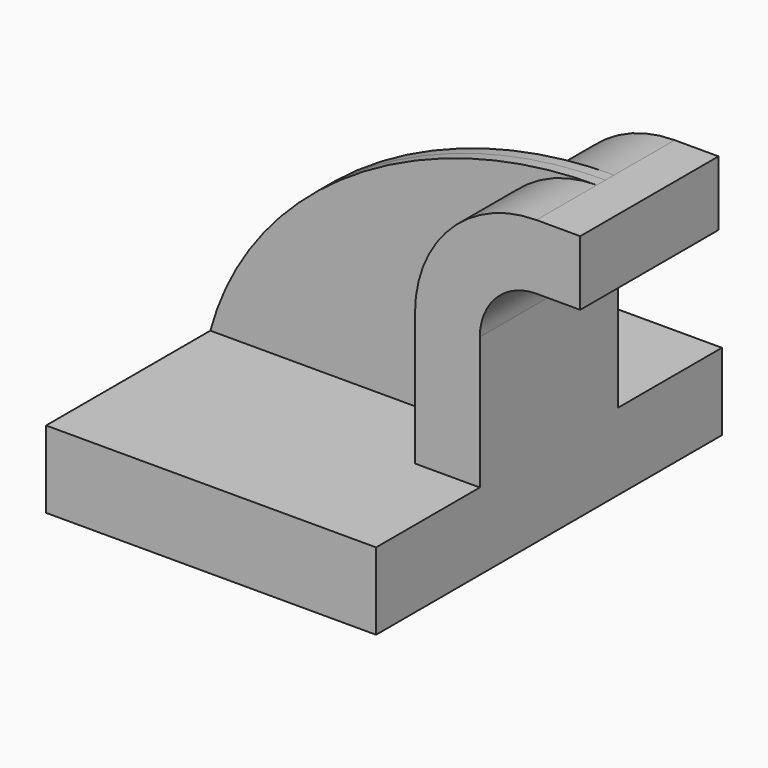
from build123d import *

# Parameters (mm, degrees)
F1_DEPTH = 63.5
F2_DEPTH = 25.4
F3_DEPTH = 3.175


with BuildPart() as f1:
    # F0 (on Front) → F1 (new body, symmetric)
    with BuildSketch(Plane.XZ):
        Polygon((-48.475966, -11.303), (48.475966, -11.303), (48.475966, 11.303), (29.425966, 11.303), (-48.475966, 11.303), align=None)
    extrude(amount=F1_DEPTH, both=True)

    # F0 (on Front) → F2 (join, symmetric)
    with BuildSketch(Plane.XZ):
        with BuildLine():
            Line((29.425966, 11.303), (48.475966, 11.303))
            Line((48.475966, 11.303), (48.475966, 50.224972))
            ThreePointArc((48.475966, 50.224972), (53.341391, 61.971147), (65.087566, 66.836572))
            Line((65.087566, 66.836572), (77.961333, 66.836572))
            Line((77.961333, 66.836572), (77.961333, 85.886572))
            Line((77.961333, 85.886572), (65.087566, 85.886572))
            ThreePointArc((65.087566, 85.886572), (39.871007, 75.441531), (29.425966, 50.224972))
            Line((29.425966, 50.224972), (29.425966, 11.303))
        make_face()
    extrude(amount=F2_DEPTH, both=True)

    # F0 (on Front) → F3 (join, symmetric)
    with BuildSketch(Plane.XZ):
        with BuildLine():
            add(Edge.make_bspline(
                [(-48.475966, 11.303), (-36.481909, 55.469651), (13.493313, 85.954547), (65.087566, 85.886572)],
                knots=[0, 0, 0, 0, 135.865319, 135.865319, 135.865319, 135.865319], degree=3))
            Line((-48.475966, 11.303), (29.425966, 11.303))
            Line((29.425966, 11.303), (29.425966, 50.224972))
            ThreePointArc((29.425966, 50.224972), (39.871007, 75.441531), (65.087566, 85.886572))
        make_face()
    extrude(amount=F3_DEPTH, both=True)


solid = f1.part
